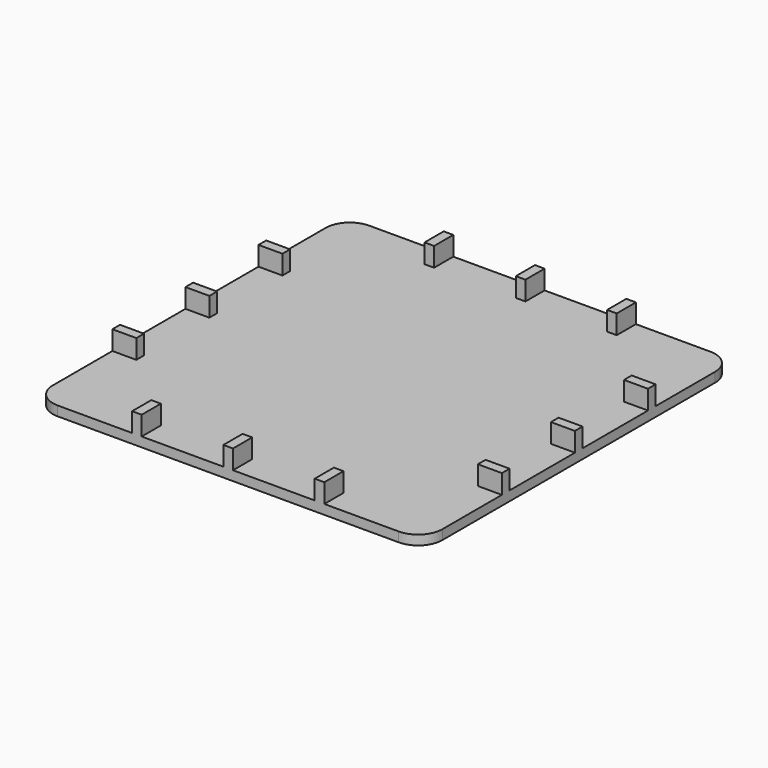
from build123d import *

# Parameters (mm, degrees)
SKETCH_W      = 81.25
SKETCH_H      = 81.25
PAD_DEPTH     = 2
FILLET_R      = 5.05
SKETCH001_W   = 2
SKETCH001_H   = 5
SKETCH001_W_2 = 5
SKETCH001_H_2 = 2
PAD001_DEPTH  = 4


with BuildPart() as part:
    # Sketch → Pad (new body)
    with BuildSketch(Plane.XY):
        with Locations((40.625, 40.625)):
            Rectangle(SKETCH_W, SKETCH_H)
    extrude(amount=PAD_DEPTH)

    # Fillet
    fillet_edges = [part.edges().sort_by_distance(p)[0] for p in [
        (81.25, 0, 1),
        (0, 0, 1),
        (0, 81.25, 1),
        (81.25, 81.25, 1),
    ]]
    fillet(fillet_edges, radius=FILLET_R)

    # Sketch001 (on Face5 of Fillet) → Pad001 (join)
    with BuildSketch(Plane.XY.offset(2)):
        with Locations((21.575, 78.75)):
            Rectangle(SKETCH001_W, SKETCH001_H)
        with Locations((40.625, 78.75)):
            Rectangle(SKETCH001_W, SKETCH001_H)
        with Locations((59.675, 78.75)):
            Rectangle(SKETCH001_W, SKETCH001_H)
        with Locations((40.625, 2.5)):
            Rectangle(SKETCH001_W, SKETCH001_H)
        with Locations((59.675, 2.5)):
            Rectangle(SKETCH001_W, SKETCH001_H)
        with Locations((21.575, 2.5)):
            Rectangle(SKETCH001_W, SKETCH001_H)
        with Locations((78.75, 40.625)):
            Rectangle(SKETCH001_W_2, SKETCH001_H_2)
        with Locations((2.5, 40.625)):
            Rectangle(SKETCH001_W_2, SKETCH001_H_2)
        with Locations((78.75, 59.675)):
            Rectangle(SKETCH001_W_2, SKETCH001_H_2)
        with Locations((78.75, 21.575)):
            Rectangle(SKETCH001_W_2, SKETCH001_H_2)
        with Locations((2.5, 59.675)):
            Rectangle(SKETCH001_W_2, SKETCH001_H_2)
        with Locations((2.5, 21.575)):
            Rectangle(SKETCH001_W_2, SKETCH001_H_2)
    extrude(amount=PAD001_DEPTH)


solid = part.part
